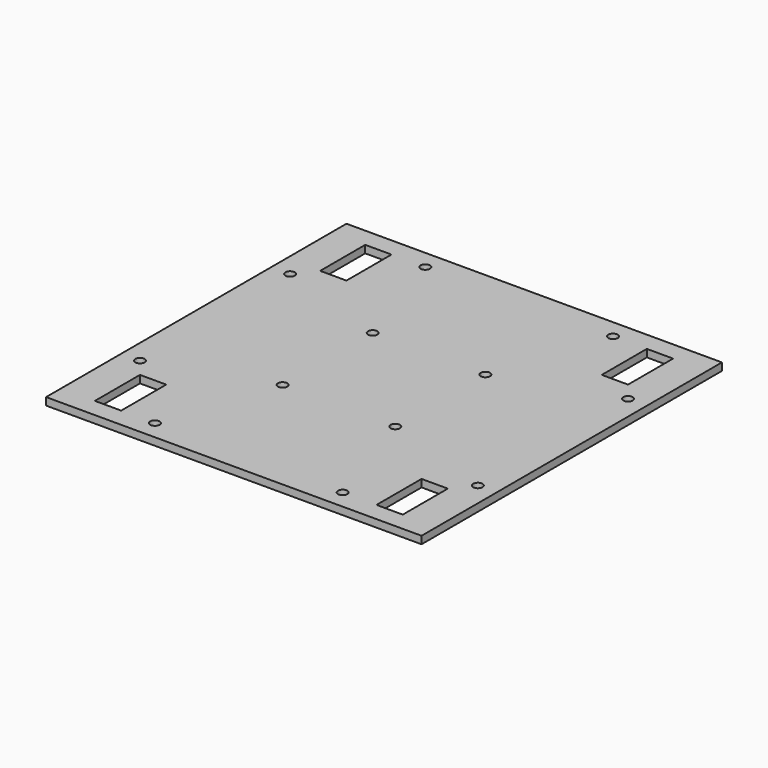
from build123d import *

# Parameters (mm, degrees)
F0_W     = 200
F0_H     = 200
F0_W_2   = 14
F0_H_2   = 30
F0_R     = 2.5
F1_DEPTH = 4


with BuildPart() as f1:
    # F0 (on Top) → F1 (new body)
    with BuildSketch(Plane.XY):
        Rectangle(F0_W, F0_H)
        with Locations((-75, -75)):
            Rectangle(F0_W_2, F0_H_2, mode=Mode.SUBTRACT)
        with Locations((-50, -90)):
            Circle(F0_R, mode=Mode.SUBTRACT)
        with Locations((-90, -50)):
            Circle(F0_R, mode=Mode.SUBTRACT)
        with Locations((-30, -30)):
            Circle(F0_R, mode=Mode.SUBTRACT)
        with Locations((50, -90)):
            Circle(F0_R, mode=Mode.SUBTRACT)
        with Locations((75, -75)):
            Rectangle(F0_W_2, F0_H_2, mode=Mode.SUBTRACT)
        with Locations((30, -30)):
            Circle(F0_R, mode=Mode.SUBTRACT)
        with Locations((90, -50)):
            Circle(F0_R, mode=Mode.SUBTRACT)
        with Locations((-30, 30)):
            Circle(F0_R, mode=Mode.SUBTRACT)
        with Locations((-90, 50)):
            Circle(F0_R, mode=Mode.SUBTRACT)
        with Locations((-75, 75)):
            Rectangle(F0_W_2, F0_H_2, mode=Mode.SUBTRACT)
        with Locations((-50, 90)):
            Circle(F0_R, mode=Mode.SUBTRACT)
        with Locations((30, 30)):
            Circle(F0_R, mode=Mode.SUBTRACT)
        with Locations((90, 50)):
            Circle(F0_R, mode=Mode.SUBTRACT)
        with Locations((50, 90)):
            Circle(F0_R, mode=Mode.SUBTRACT)
        with Locations((75, 75)):
            Rectangle(F0_W_2, F0_H_2, mode=Mode.SUBTRACT)
    extrude(amount=F1_DEPTH)


solid = f1.part
